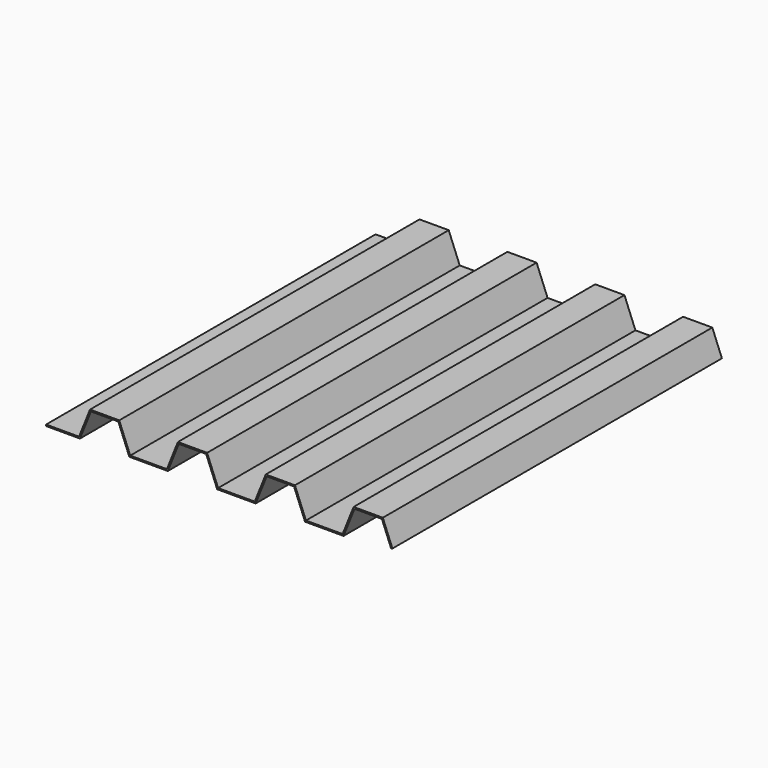
from build123d import *

# Parameters (mm, degrees)
F1_DEPTH = 300


with BuildPart() as f1:
    # F0 (on Front) → F1 (new body)
    with BuildSketch(Plane.XZ):
        Polygon((-51.054478, -4), (-75.054478, -4), (-75.054478, -5), (-50.377445, -5), (-42.377445, 15), (-22.439643, 15), (-14.439643, -5), (13.622555, -5), (21.622555, 15), (41.560357, 15), (49.560357, -5), (77.622555, -5), (85.622555, 15), (105.560357, 15), (113.560357, -5), (141.622555, -5), (149.622555, 15), (169.560357, 15), (176.303139, -1.856953), (177.231616, -1.485563), (170.23739, 16), (148.945522, 16), (140.945522, -4), (114.23739, -4), (106.23739, 16), (84.945522, 16), (76.945522, -4), (50.23739, -4), (42.23739, 16), (20.945522, 16), (12.945522, -4), (-13.76261, -4), (-21.76261, 16), (-43.054478, 16), align=None)
    extrude(amount=F1_DEPTH)


solid = f1.part
